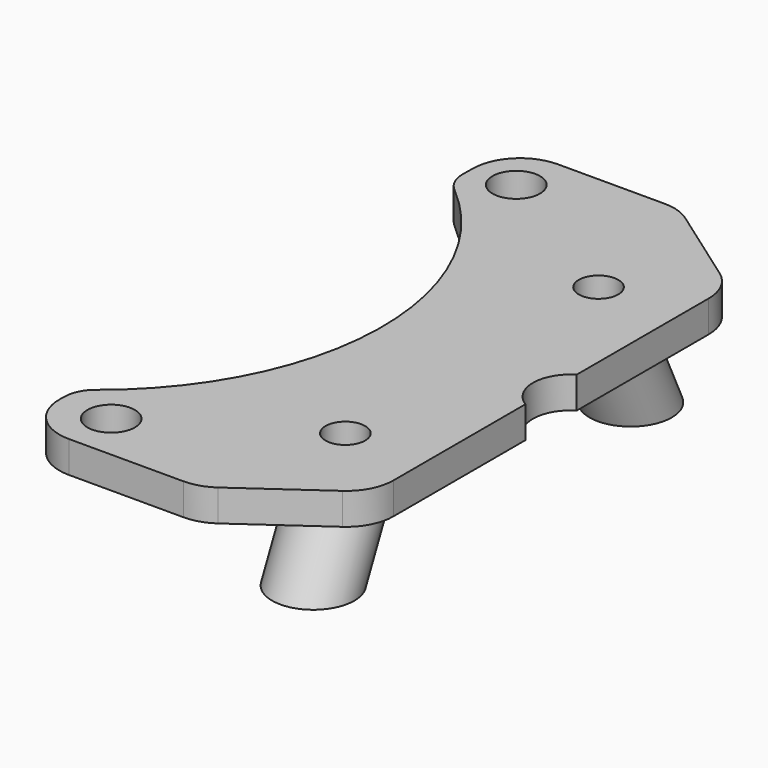
from build123d import *

# Parameters (mm, degrees)
F0_R     = 1.5
F0_R_2   = 2.6
F0_R_3   = 1.25
F1_DEPTH = 2


with BuildPart() as f1:
    # F0 (on Top) → F1 (new body)
    with BuildSketch(Plane.XY):
        with BuildLine():
            ThreePointArc((13.733325, -14.896663), (14.66458, -13.826485), (15, -12.448075))
            Line((15, -12.448075), (15, -2.025536))
            ThreePointArc((15, -2.025536), (13.859575, 0), (15, 2.025536))
            Line((15, 2.025536), (15, 12.448075))
            ThreePointArc((15, 12.448075), (14.66458, 13.826485), (13.733325, 14.896663))
            Line((13.733325, 14.896663), (8.715685, 18.448588))
            ThreePointArc((8.715685, 18.448588), (7.89182, 18.858825), (6.98236, 19))
            Line((6.98236, 19), (0.238068, 19))
            ThreePointArc((0.238068, 19), (-1.866179, 18.138258), (-2.761547, 16.048099))
            Line((-2.761547, 16.048099), (-2.774231, 15.257063))
            ThreePointArc((-2.774231, 15.257063), (-2.594506, 14.395821), (-2.062591, 13.695032))
            ThreePointArc((-2.062591, 13.695032), (4.30745, -0.287028), (-2.507604, -14.057665))
            ThreePointArc((-2.507604, -14.057665), (-3.061715, -14.741039), (-3.26896, -15.596076))
            Line((-3.26896, -15.596076), (-3.274666, -15.951901))
            ThreePointArc((-3.274666, -15.951901), (-2.41331, -18.104246), (-0.275051, -19))
            Line((-0.275051, -19), (6.98236, -19))
            ThreePointArc((6.98236, -19), (7.89182, -18.858825), (8.715685, -18.448588))
            Line((8.715685, -18.448588), (13.733325, -14.896663))
        make_face()
        with Locations((0, -16)):
            Circle(F0_R, mode=Mode.SUBTRACT)
        with Locations((10, -10)):
            Circle(F0_R_2, mode=Mode.SUBTRACT)
        with Locations((0, 16)):
            Circle(F0_R, mode=Mode.SUBTRACT)
        with Locations((10, 10)):
            Circle(F0_R_2, mode=Mode.SUBTRACT)
        with Locations((10, -10)):
            Circle(F0_R_2)
        with Locations((10, -10)):
            Circle(F0_R_3, mode=Mode.SUBTRACT)
        with Locations((10, 10)):
            Circle(F0_R_2)
        with Locations((10, 10)):
            Circle(F0_R_3, mode=Mode.SUBTRACT)
    extrude(amount=F1_DEPTH)

    # F4: sweep along a path in F3
    with BuildLine(Plane.YZ.offset(10)) as f4_path:
        Line((-7.331403, 0), (-9.867113, -5.437847))
    # F0 (on Top) → F4 (sweep)
    with BuildSketch(Plane.XY):
        with Locations((10, -10)):
            Circle(F0_R_2)
        with Locations((10, -10)):
            Circle(F0_R_3, mode=Mode.SUBTRACT)
    sweep(path=f4_path.line)

    # F5: sweep along a path in F3
    with BuildLine(Plane.YZ.offset(10)) as f5_path:
        Line((7.409177, 0), (9.944887, -5.437847))
    # F0 (on Top) → F5 (sweep)
    with BuildSketch(Plane.XY):
        with Locations((10, 10)):
            Circle(F0_R_2)
        with Locations((10, 10)):
            Circle(F0_R_3, mode=Mode.SUBTRACT)
    sweep(path=f5_path.line)


solid = f1.part
